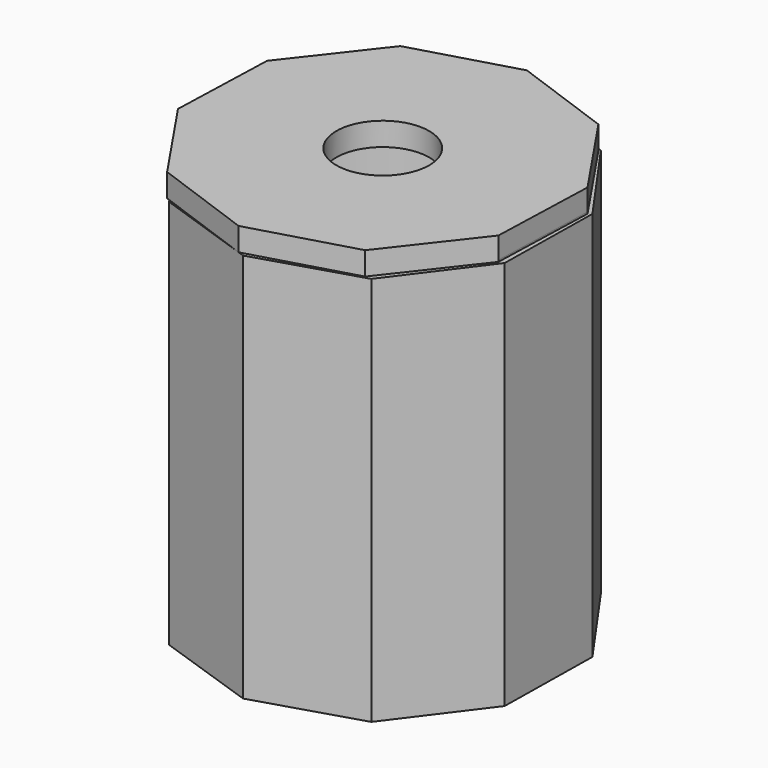
from build123d import *

# Parameters (mm, degrees)
F1_DEPTH  = 426.72
F2_R      = 165.1
F3_DEPTH  = 408.94
F4_R      = 50.8
F5_DEPTH  = 25.4
F5_FACE_R = 50.8
F6_DEPTH  = 23.622


with BuildPart() as f1:
    # F0 (on Top) → F1 (new body)
    with BuildSketch(Plane.XY):
        Polygon((-10.14123, -136.113139), (60.500069, -41.924759), (62.287539, 75.797154), (-5.461572, 172.086831), (-116.869406, 210.164888), (-229.381958, 175.486801), (-300.023256, 81.298422), (-301.810726, -36.423492), (-234.061615, -132.713169), (-122.653781, -170.791226), align=None)
    extrude(amount=F1_DEPTH)

    # F2 (on face) → F3 (cut)
    with BuildSketch(Plane.XY.offset(426.72)):
        with Locations((-123.120828, 20.834983)):
            Circle(F2_R)
    extrude(amount=-F3_DEPTH, mode=Mode.SUBTRACT)

    # F4 (on face) → F5 (join)
    with BuildSketch(Plane.XY.offset(426.72)):
        Polygon((-6.777996, 170.3316), (-116.869406, 210.164888), (-229.348647, 177.680588), (-301.252472, 85.286597), (-305.116064, -31.725719), (-239.463661, -128.661634), (-129.37225, -168.494922), (-16.893009, -136.010621), (55.010816, -43.616631), (58.874407, 73.395686), align=None)
        with Locations((-123.120828, 20.834983)):
            Circle(F4_R, mode=Mode.SUBTRACT)
    extrude(amount=F5_DEPTH)

    # F5_face (on face) → F6 (join)
    with BuildSketch(Plane(origin=(-123.120828, 20.834983, 452.12), x_dir=(1, 0, 0), z_dir=(0, 0, 1))):
        Polygon((181.995236, 52.560703), (116.342833, 149.496617), (6.251422, 189.329905), (-106.227819, 156.845604), (-178.131644, 64.451614), (-181.995236, -52.560703), (-116.342833, -149.496617), (-6.251422, -189.329905), (106.227819, -156.845604), (178.131644, -64.451614), align=None)
        Circle(F5_FACE_R, mode=Mode.SUBTRACT)
    extrude(amount=-F6_DEPTH)


solid = f1.part
